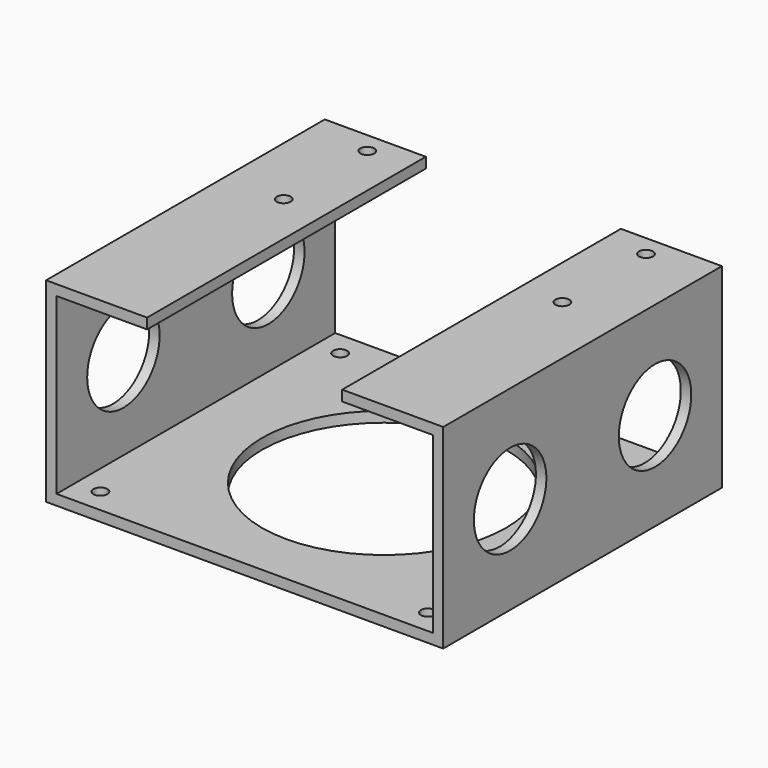
from build123d import *

# Parameters (mm, degrees)
F0_W      = 54
F0_H      = 50
F0_R      = 1
F1_DEPTH  = 1.5
F2_W      = 1.5
F2_H      = 50
F3_DEPTH  = 28
F4_W      = 50
F4_H      = 1.5
F5_DEPTH  = 13
F6_R      = 1
F7_DEPTH  = 1.5
F9_R      = 6.5
F10_DEPTH = 57.001
F11_R     = 17.5
F12_DEPTH = 1.5


with BuildPart() as f1:
    # F0 (on Top) → F1 (new body)
    with BuildSketch(Plane.XY):
        Rectangle(F0_W, F0_H)
        with Locations((-23.5, -21.5)):
            Circle(F0_R, mode=Mode.SUBTRACT)
        with Locations((23.5, -21.5)):
            Circle(F0_R, mode=Mode.SUBTRACT)
        with Locations((-23.5, 21.5)):
            Circle(F0_R, mode=Mode.SUBTRACT)
        with Locations((23.5, 21.5)):
            Circle(F0_R, mode=Mode.SUBTRACT)
    extrude(amount=F1_DEPTH)

    # F2 (on Top) → F3 (join)
    with BuildSketch(Plane.XY):
        with Locations((27.75, 0)):
            Rectangle(F2_W, F2_H)
    extrude(amount=F3_DEPTH)

    # F4 (on face) → F5 (join)
    with BuildSketch(Plane(origin=(27, 0, 0), x_dir=(0, -1, 0), z_dir=(-1, 0, 0))):
        with Locations((0, 27.25)):
            Rectangle(F4_W, F4_H)
    extrude(amount=F5_DEPTH)

    # F6 (on face) → F7 (cut, through all)
    with BuildSketch(Plane.XY.offset(28)):
        with Locations((20, 22)):
            Circle(F6_R)
        with Locations((20, 7)):
            Circle(F6_R)
    extrude(amount=-F7_DEPTH, mode=Mode.SUBTRACT)

    # F8: F1 across plane


with BuildPart() as f1_1:
    add(f1.part)
    add(f1.part.mirror(Plane.YZ))

    # F9 (on face) → F10 (cut, through all)
    with BuildSketch(Plane(origin=(-28.5, 0, 0), x_dir=(0, -1, 0), z_dir=(-1, 0, 0))):
        with Locations((-13, 14)):
            Circle(F9_R)
        with Locations((13, 14)):
            Circle(F9_R)
    extrude(amount=-F10_DEPTH, mode=Mode.SUBTRACT)

    # F11 (on face) → F12 (cut, through all)
    with BuildSketch(Plane(origin=(0, 0, 0), x_dir=(1, 0, 0), z_dir=(0, 0, -1))):
        Circle(F11_R)
    extrude(amount=-F12_DEPTH, mode=Mode.SUBTRACT)


solid = f1_1.part
